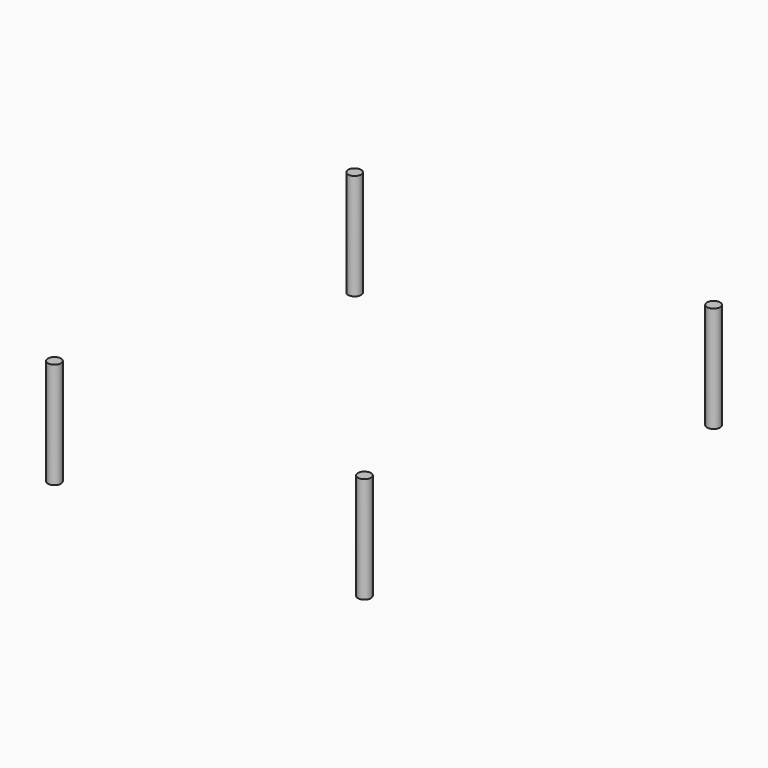
from build123d import *

# Parameters (mm, degrees)
CYLINDER100_R     = 1.6
CYLINDER100_DEPTH = 26
CYLINDER101_R     = 1.6
CYLINDER101_DEPTH = 26
CYLINDER102_R     = 1.6
CYLINDER102_DEPTH = 26
CYLINDER099_R     = 1.6
CYLINDER099_DEPTH = 26


with BuildPart() as cylinder102:
    # Cylinder100 → Cylinder100 (new body)
    with BuildSketch(Plane(origin=(32, 8, 0), x_dir=(1, 0, 0), z_dir=(0, 0, 1))):
        Circle(CYLINDER100_R)
    extrude(amount=CYLINDER100_DEPTH)


with BuildPart() as cylinder103:
    # Cylinder101 → Cylinder101 (new body)
    with BuildSketch(Plane(origin=(116, 105, 0), x_dir=(1, 0, 0), z_dir=(0, 0, 1))):
        Circle(CYLINDER101_R)
    extrude(amount=CYLINDER101_DEPTH)


with BuildPart() as cylinder104:
    # Cylinder102 → Cylinder102 (new body)
    with BuildSketch(Plane(origin=(28, 105, 0), x_dir=(1, 0, 0), z_dir=(0, 0, 1))):
        Circle(CYLINDER102_R)
    extrude(amount=CYLINDER102_DEPTH)


with BuildPart() as topmounttop:
    # Cylinder099 → Cylinder099 (new body)
    with BuildSketch(Plane(origin=(108, 8, 0), x_dir=(1, 0, 0), z_dir=(0, 0, 1))):
        Circle(CYLINDER099_R)
    extrude(amount=CYLINDER099_DEPTH)

    # Fusion046: union Cylinder102, Cylinder103, Cylinder104
    add(cylinder102.part)
    add(cylinder103.part)
    add(cylinder104.part)


solid = topmounttop.part
